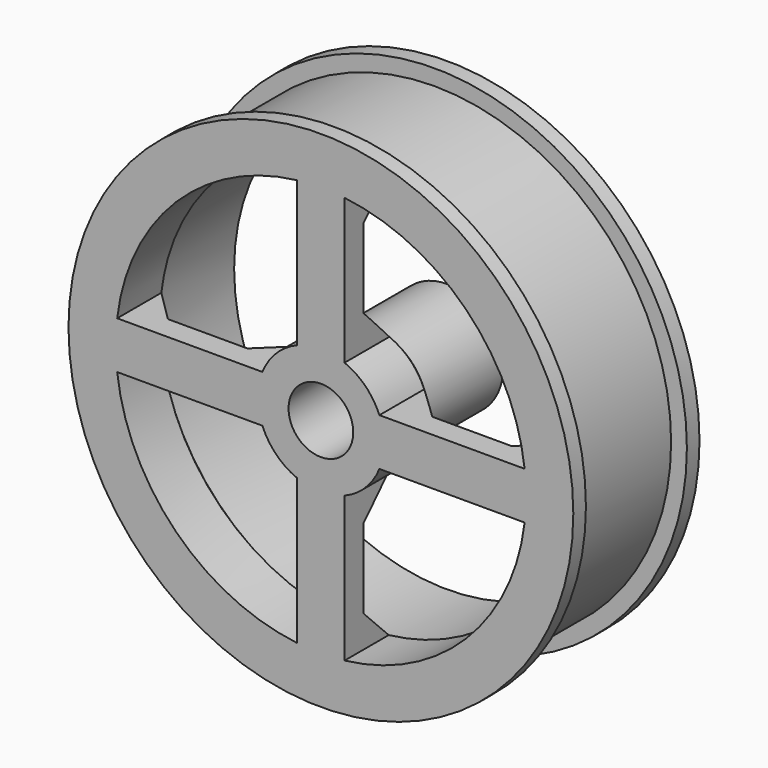
from build123d import *

# Parameters (mm, degrees)
POCKET_DEPTH       = 5
POLARPATTERN_COUNT = 4


with BuildPart() as part:
    # Sketch → Revolution (revolve)
    with BuildSketch(Plane.XY):
        Polygon((-2.05, 5), (-2.05, -5), (-16, -5), (-16, -4), (-15, -4), (-15, 4), (-16, 4), (-16, 5), (-13.5, 5), (-13.5, -1), (-11, -3.5), (-6.05, -3.5), (-3.55, -1), (-3.55, 5), align=None)
    revolve(axis=Axis((0, 0, 0), (0, 1, 0)))

    # Sketch001 → Pocket (cut)
    with BuildSketch(Plane.XZ.offset(5)):
        with BuildLine():
            ThreePointArc((-1.5, 3.708099), (-2.828427, 2.828427), (-3.708099, 1.5))
            Line((-12.913172, 1.5), (-3.708099, 1.5))
            ThreePointArc((-1.5, 12.913172), (-9.192388, 9.192388), (-12.913172, 1.5))
            Line((-1.5, 12.913172), (-1.5, 3.708099))
        make_face()
    pocket = extrude(amount=-POCKET_DEPTH, mode=Mode.SUBTRACT)

    # PolarPattern: Pocket ×4 about axis
    polarpattern_axis = Axis((0, -5, 0), (0, -1, 0))
    for i in range(1, POLARPATTERN_COUNT):
        add(pocket.rotate(polarpattern_axis, i * 360 / POLARPATTERN_COUNT), mode=Mode.SUBTRACT)


solid = part.part
